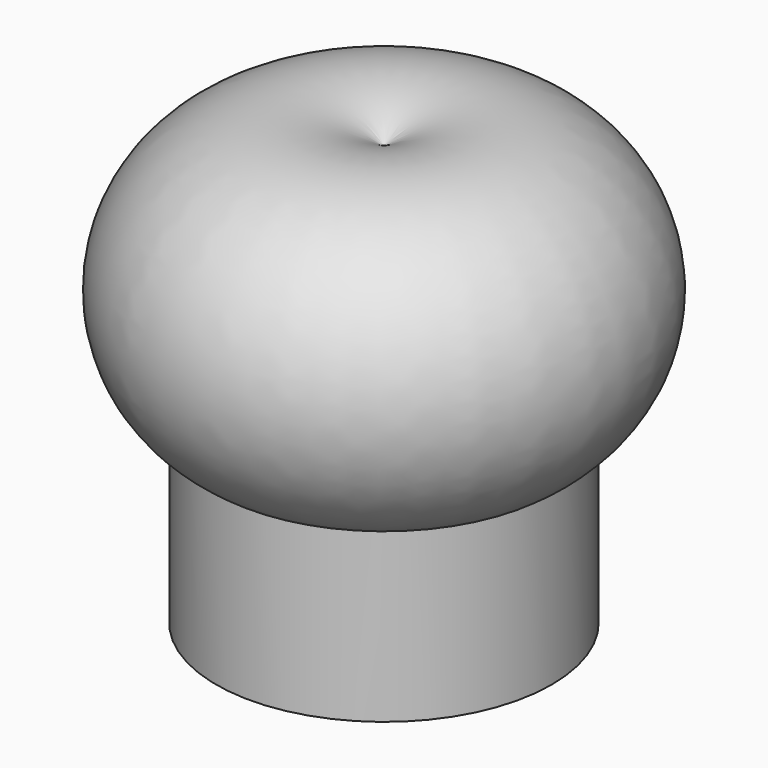
from build123d import *


with BuildPart() as f1:
    # F0 (on Front) → F1 (revolve)
    with BuildSketch(Plane.XZ):
        with BuildLine():
            ThreePointArc((40, -11.149029), (50, 38.850971), (0, 48.850971))
            Line((0, 48.850971), (0, -26.844757))
            Line((0, -26.844757), (9.018144, -26.844757))
            Line((9.018144, -26.844757), (9.018144, -31.844757))
            Line((9.018144, -31.844757), (0, -31.844757))
            Line((0, -31.844757), (0, -51.149029))
            Line((0, -51.149029), (40, -51.149029))
            Line((40, -51.149029), (40, -11.149029))
        make_face()
    revolve(axis=Axis((0, 0, -1.149029), (0, 0, -1)))


solid = f1.part
